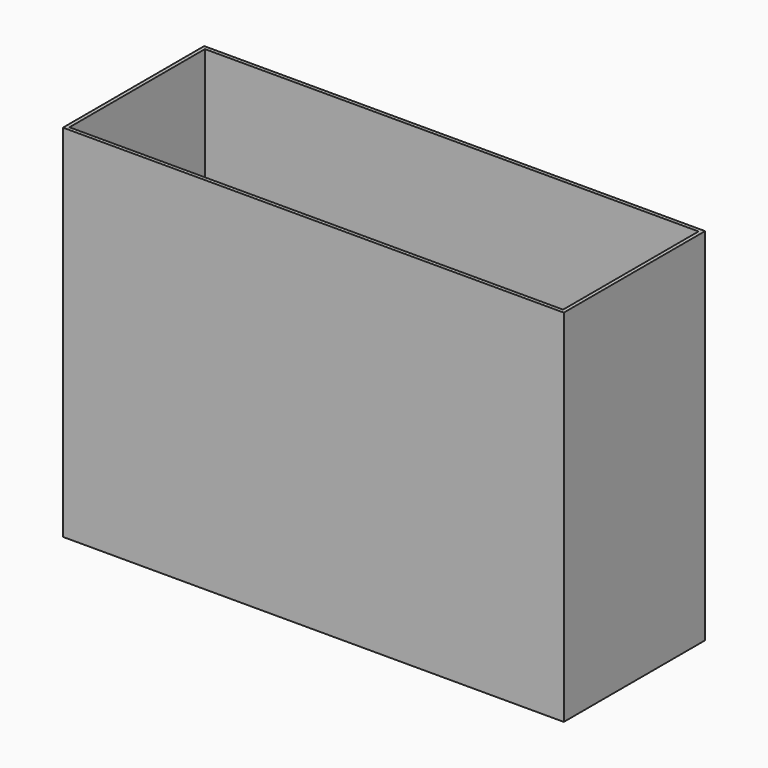
from build123d import *

# Parameters (mm, degrees)
F0_W     = 68.5
F0_H     = 23.5
F1_DEPTH = 1
F2_W     = 69.5
F2_H     = 24.5
F2_W_2   = 68.5
F2_H_2   = 23.5
F3_DEPTH = 50


with BuildPart() as f1:
    # F0 (on Top) → F1 (new body)
    with BuildSketch(Plane.XY):
        Rectangle(F0_W, F0_H)
    extrude(amount=F1_DEPTH)

    # F2 (on Top) → F3 (join)
    with BuildSketch(Plane.XY):
        Rectangle(F2_W, F2_H)
        Rectangle(F2_W_2, F2_H_2, mode=Mode.SUBTRACT)
    extrude(amount=F3_DEPTH)


solid = f1.part
